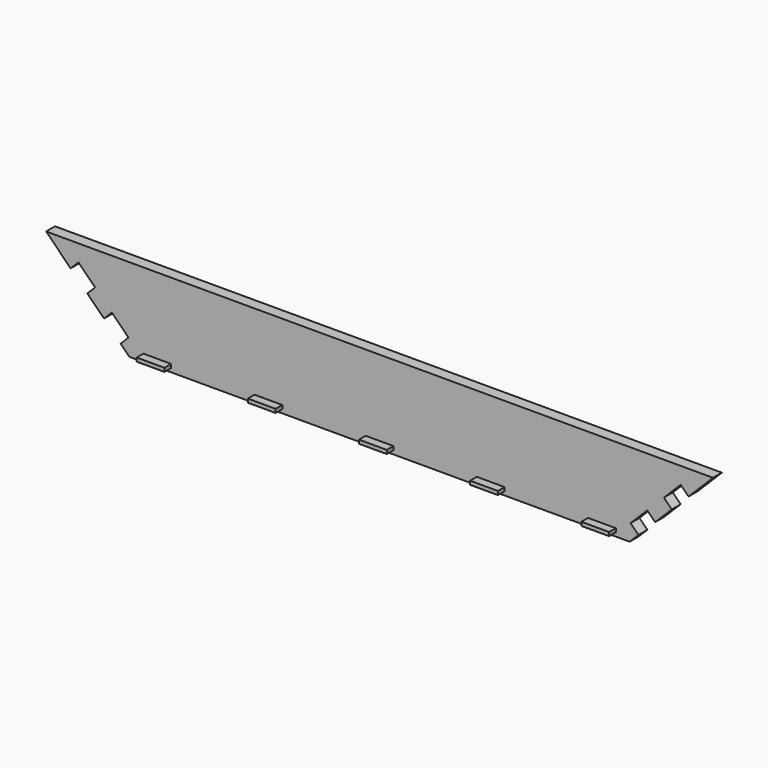
from build123d import *

# Parameters (mm, degrees)
F2_DEPTH = 10
F4_DEPTH = 10
F5_W     = 50
F5_H     = 6.6666666667
F6_DEPTH = 15


with BuildPart() as f2:
    # F1 (on Front) → F2 (new body, symmetric)
    with BuildSketch(Plane.XZ):
        Polygon((450, -75), (600, 75), (-600, 75), (-450, -75), align=None)
    extrude(amount=F2_DEPTH, both=True)

    # F3 (on Front) → F4 (cut, symmetric)
    with BuildSketch(Plane.XZ):
        Polygon((-541.7157287525, 45), (-555.8578643763, 30.8578643763), (-525.8578643763, 0.8578643763), (-511.7157287525, 15), align=None)
        Polygon((-451.7157287525, -45), (-481.7157287525, -15), (-495.8578643763, -29.1421356237), (-465.8578643763, -59.1421356237), align=None)
        Polygon((525.8578643763, 0.8578643763), (555.8578643763, 30.8578643763), (541.7157287525, 45), (511.7157287525, 15), align=None)
        Polygon((495.8578643763, -29.1421356237), (481.7157287525, -15), (451.7157287525, -45), (465.8578643763, -59.1421356237), align=None)
    extrude(amount=F4_DEPTH, both=True, mode=Mode.SUBTRACT)

    # F5 (on face) → F6 (join)
    with BuildSketch(Plane.XZ.offset(10)):
        with Locations((0, -65)):
            Rectangle(F5_W, F5_H)
        with Locations((200, -65)):
            Rectangle(F5_W, F5_H)
        with Locations((400, -65)):
            Rectangle(F5_W, F5_H)
        with Locations((-200, -65)):
            Rectangle(F5_W, F5_H)
        with Locations((-400, -65)):
            Rectangle(F5_W, F5_H)
    extrude(amount=F6_DEPTH)


solid = f2.part
